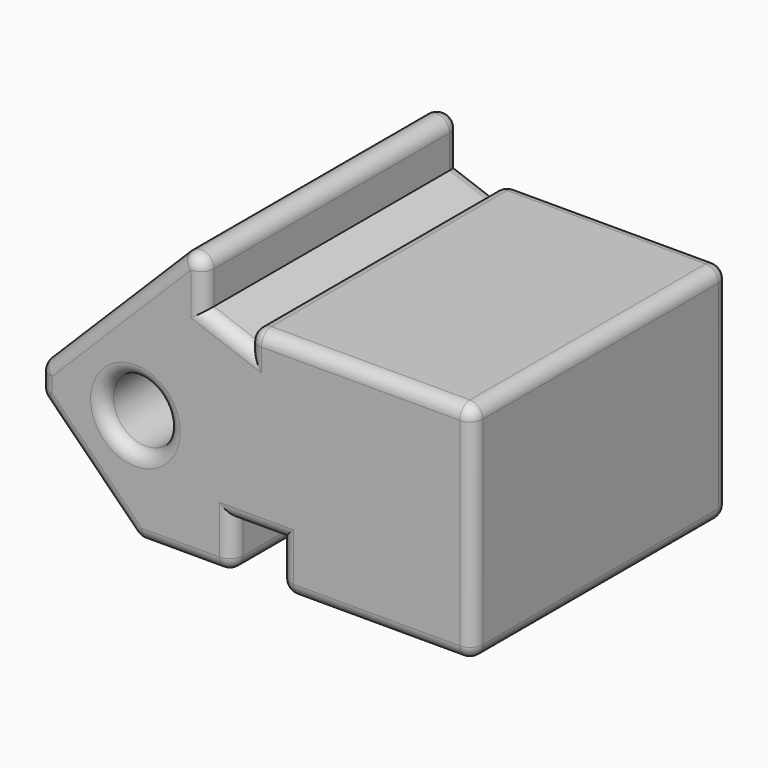
from build123d import *

# Parameters (mm, degrees)
F1_DEPTH = 63.5
F2_R     = 6.35
F3_DEPTH = 63.501
F4_R     = 2.54


with BuildPart() as f1:
    # F0 (on Front) → F1 (new body)
    with BuildSketch(Plane.XZ):
        Polygon((0, 0), (-44.45, 0), (-44.45, -3.429), (-53.34, -0.193305), (-53.34, 12.506695), (-85.945848, -20.099152), (-85.945848, -25.179152), (-66.675, -44.45), (-47.625, -44.45), (-47.625, -34.925), (-38.1, -34.925), (-38.1, -44.45), (0, -44.45), align=None)
    extrude(amount=F1_DEPTH)

    # F2 (on Front) → F3 (cut, through all)
    with BuildSketch(Plane.XZ):
        with Locations((-66.895848, -22.639152)):
            Circle(F2_R)
    extrude(amount=F3_DEPTH, mode=Mode.SUBTRACT)

    # F4
    f4_edges = [f1.edges().sort_by_distance(p)[0] for p in [
        (-22.225, 0, 0),
        (0, 0, -22.225),
        (-44.45, 0, -1.7145),
        (-19.05, 0, -44.45),
        (-48.895, 0, -1.811152),
        (-38.1, 0, -39.6875),
        (-53.34, 0, 6.156695),
        (-42.8625, 0, -34.925),
        (-69.642924, 0, -3.796228),
        (-47.625, 0, -39.6875),
        (-85.945848, 0, -22.639152),
        (-57.15, 0, -44.45),
        (-76.310424, 0, -34.814576),
        (-73.245848, 0, -22.639152),
        (-85.945848, -31.75, -25.179152),
        (-66.675, -31.75, -44.45),
        (-76.310424, -63.5, -34.814576),
        (-38.1, -31.75, -44.45),
        (0, -31.75, -44.45),
        (-19.05, -63.5, -44.45),
        (-22.225, -63.5, 0),
        (0, -63.5, -22.225),
        (-44.45, -63.5, -1.7145),
        (-48.895, -63.5, -1.811152),
        (-38.1, -63.5, -39.6875),
        (-53.34, -63.5, 6.156695),
        (-42.8625, -63.5, -34.925),
        (-69.642924, -63.5, -3.796228),
        (-47.625, -63.5, -39.6875),
        (-85.945848, -63.5, -22.639152),
        (-57.15, -63.5, -44.45),
        (-73.245848, -63.5, -22.639152),
        (-47.625, -31.75, -44.45),
        (0, -31.75, 0),
        (-44.45, -31.75, 0),
        (-53.34, -31.75, 12.506695),
        (-85.945848, -31.75, -20.099152),
    ]]
    fillet(f4_edges, radius=F4_R)


solid = f1.part
